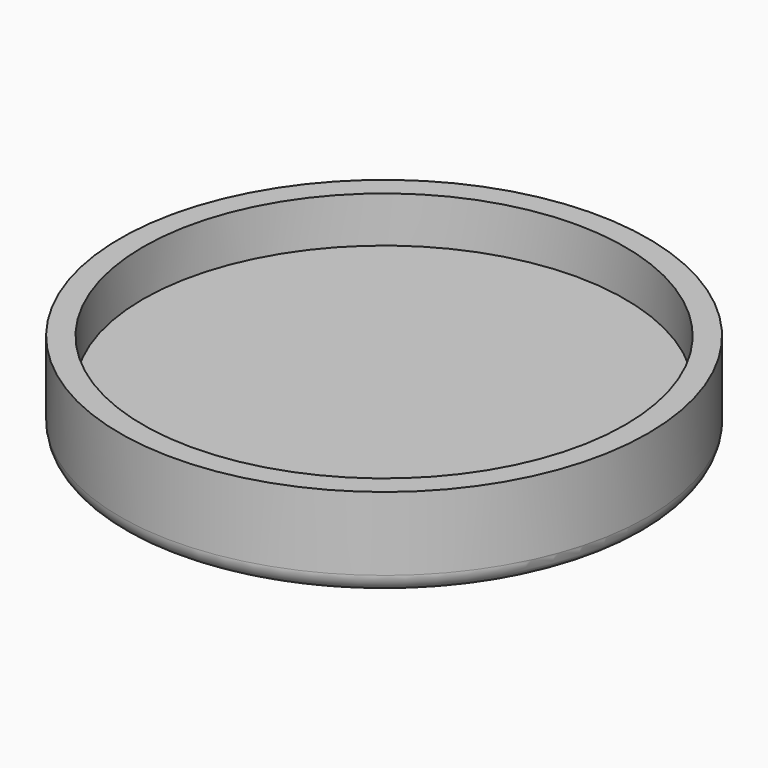
from build123d import *

# Parameters (mm, degrees)
F0_R     = 73.025
F0_R_2   = 66.675
F1_DEPTH = 25.4
F2_R     = 66.675
F3_DEPTH = 12.7
F4_R     = 5.08


with BuildPart() as f1:
    # F0 (on Top) → F1 (new body)
    with BuildSketch(Plane.XY):
        Circle(F0_R)
        Circle(F0_R_2, mode=Mode.SUBTRACT)
    extrude(amount=F1_DEPTH)

    # F2 (on Top) → F3 (join)
    with BuildSketch(Plane.XY):
        Circle(F2_R)
    extrude(amount=F3_DEPTH)

    # F4
    f4_edges = [f1.edges().sort_by_distance(p)[0] for p in [
        (-73.025, 0, 0),
    ]]
    fillet(f4_edges, radius=F4_R)


solid = f1.part
